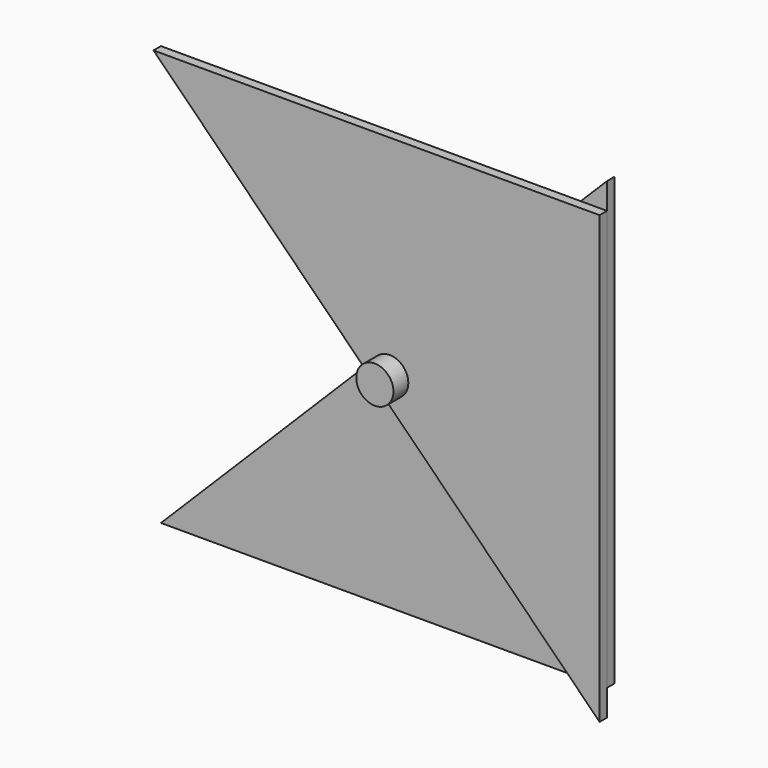
from build123d import *

# Parameters (mm, degrees)
F0_R     = 1.5875
F1_DEPTH = 3.175
F4_ANGLE = 90
F6_R     = 6.35
F7_DEPTH = 6.35


with BuildPart() as f1:
    # F0 (on Front) → F1 (new body)
    with BuildSketch(Plane.XZ):
        Polygon((76.2, 76.2), (-76.2, -76.2), (76.2, -76.2), align=None)
        with Locations((4.4901280605, -4.4901280605)):
            Circle(F0_R, mode=Mode.SUBTRACT)
    extrude(amount=F1_DEPTH)


with BuildPart() as f4_1:
    # F4: copy of F1
    add(f1.part.rotate(Axis((4.4901280605, -59.5605373383, -4.4901280605), (0, -1, 0)), F4_ANGLE))


with BuildPart() as f4_1_1:
    # F5: moved
    add(f4_1.part.moved(Location((0, -3.175, 0))))


with BuildPart() as f7:
    # F6 (on face) → F7 (new body)
    with BuildSketch(Plane.XZ.offset(6.35)):
        with Locations((4.4901280605, -4.4901280605)):
            Circle(F6_R)
    extrude(amount=F7_DEPTH)


solid = Compound([f1.part, f4_1_1.part, f7.part])
